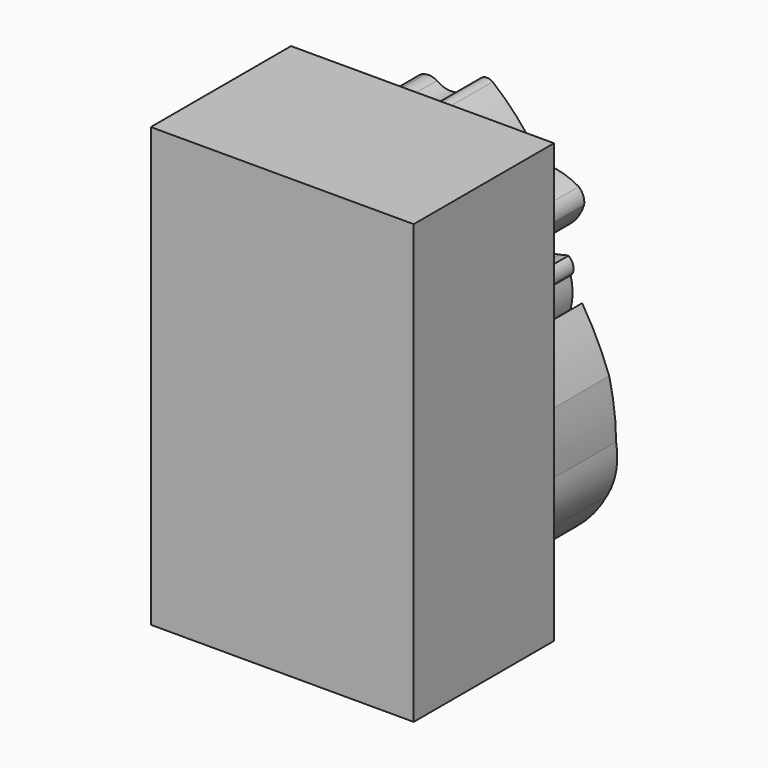
from build123d import *

# Parameters (mm, degrees)
F1_DEPTH = 5
F0_W     = 15
F0_H     = 25
F2_DEPTH = 10


with BuildPart() as f1:
    # F0 (on Front) → F1 (new body)
    with BuildSketch(Plane.XZ):
        with BuildLine():
            ThreePointArc((-5.00635, 6.25683), (-5.148587, 6.169676), (-5.254236, 6.04058))
            ThreePointArc((-5.254236, 6.04058), (-1.190227, 6.581507), (2.526522, 8.311981))
            ThreePointArc((2.526522, 8.311981), (1.373353, 9.812717), (0, 11.114988))
            ThreePointArc((0, 11.114988), (-0.315443, 11.216341), (-0.630887, 11.114988))
            ThreePointArc((-0.630887, 11.114988), (-1.26458, 10.464133), (-1.997163, 9.927009))
            ThreePointArc((-1.997163, 9.927009), (-2.612192, 9.895255), (-3.175682, 10.143748))
            ThreePointArc((-3.175682, 10.143748), (-3.498132, 10.256169), (-3.839445, 10.245345))
            ThreePointArc((-3.839445, 10.245345), (-4.281874, 9.989859), (-4.449024, 9.507078))
            ThreePointArc((-4.449024, 9.507078), (-4.844139, 7.901922), (-5.00635, 6.25683))
        make_face()
        with BuildLine():
            ThreePointArc((2.670606, 7.945094), (-1.26384, 6.241031), (-5.508093, 5.632733))
            ThreePointArc((-5.508093, 5.632733), (-6.248118, 5.09859), (-6.862471, 4.42367))
            ThreePointArc((-6.862471, 4.42367), (-7.089863, 3.94796), (-7.065664, 3.421252))
            ThreePointArc((-7.065664, 3.421252), (-6.488114, 2.908136), (-5.765229, 2.635573))
            ThreePointArc((-5.765229, 2.635573), (-0.612764, 3.086873), (4.109946, 5.195803))
            ThreePointArc((4.109946, 5.195803), (4.800531, 5.811559), (5.222178, 6.635136))
            ThreePointArc((5.222178, 6.635136), (5.172476, 7.079092), (4.914622, 7.443893))
            ThreePointArc((4.914622, 7.443893), (3.831957, 7.870641), (2.670606, 7.945094))
        make_face()
        with BuildLine():
            ThreePointArc((4.326092, 3.785272), (4.058701, 3.738354), (3.797791, 3.663356))
            ThreePointArc((3.797791, 3.663356), (1.987715, 3.298177), (0.343511, 2.457745))
            ThreePointArc((0.343511, 2.457745), (0.052907, 2.415777), (-0.225429, 2.322283))
            ThreePointArc((-0.225429, 2.322283), (-2.008909, 2.194381), (-3.666162, 1.523058))
            ThreePointArc((-3.666162, 1.523058), (-3.934429, 1.479938), (-4.194464, 1.401142))
            ThreePointArc((-4.194464, 1.401142), (-4.270509, 0.930872), (-4.140103, 0.472689))
            ThreePointArc((-4.140103, 0.472689), (-3.962901, 0.485716), (-3.7857, 0.472689))
            ThreePointArc((-3.7857, 0.472689), (-3.328622, -0.399799), (-2.625836, -1.089906))
            ThreePointArc((-2.625836, -1.089906), (-1.783595, -1.14206), (-0.983671, -0.873339))
            ThreePointArc((-0.983671, -0.873339), (-0.462666, -0.45625), (-0.078091, 0.089196))
            ThreePointArc((-0.078091, 0.089196), (0.096767, 0.528088), (0.104164, 1.000472))
            ThreePointArc((0.104164, 1.000472), (0.137311, 1.290969), (0.213338, 1.573295))
            ThreePointArc((0.213338, 1.573295), (0.382624, 1.644682), (0.565539, 1.627479))
            ThreePointArc((0.565539, 1.627479), (1.124563, 0.851077), (1.933705, 0.340591))
            ThreePointArc((1.933705, 0.340591), (2.665199, 0.212113), (3.396694, 0.340591))
            ThreePointArc((3.396694, 0.340591), (4.03033, 0.621907), (4.451704, 1.172431))
            ThreePointArc((4.451704, 1.172431), (4.561944, 2.006818), (4.451704, 2.841205))
            ThreePointArc((4.451704, 2.841205), (4.534789, 2.935465), (4.59409, 3.046242))
            ThreePointArc((4.59409, 3.046242), (4.57704, 3.458166), (4.326092, 3.785272))
        make_face()
        with BuildLine():
            ThreePointArc((-3.292127, 1.172228), (-2.078587, 1.734229), (-0.744217, 1.823573))
            ThreePointArc((-0.744217, 1.823573), (-0.455411, 1.687817), (-0.361073, 1.382957))
            ThreePointArc((-0.361073, 1.382957), (-0.319095, 0.865713), (-0.361073, 0.348468))
            ThreePointArc((-0.361073, 0.348468), (-0.764044, -0.229384), (-1.357248, -0.609393))
            ThreePointArc((-1.357248, -0.609393), (-2.008593, -0.762776), (-2.659938, -0.609393))
            ThreePointArc((-2.659938, -0.609393), (-3.147515, 0.220569), (-3.292127, 1.172228))
        make_face(mode=Mode.SUBTRACT)
        with BuildLine():
            ThreePointArc((1.293098, 2.495719), (2.323148, 2.961362), (3.448284, 3.070435))
            ThreePointArc((3.448284, 3.070435), (3.761202, 2.949906), (3.927214, 2.658555))
            ThreePointArc((3.927214, 2.658555), (4.153042, 2.02162), (4.128365, 1.346286))
            ThreePointArc((4.128365, 1.346286), (3.746392, 0.887432), (3.218397, 0.608734))
            ThreePointArc((3.218397, 0.608734), (2.744257, 0.54014), (2.270116, 0.608734))
            ThreePointArc((2.270116, 0.608734), (1.621266, 0.940275), (1.178154, 1.518701))
            ThreePointArc((1.178154, 1.518701), (1.04759, 1.791378), (1.034475, 2.093418))
            ThreePointArc((1.034475, 2.093418), (1.112689, 2.327417), (1.293098, 2.495719))
        make_face(mode=Mode.SUBTRACT)
        with BuildLine():
            ThreePointArc((7.046108, -4.680553), (6.942587, -3.07977), (6.65222, -1.502143))
            ThreePointArc((6.65222, -1.502143), (5.965912, 0.119684), (5.110065, 1.658797))
            ThreePointArc((5.110065, 1.658797), (4.414011, 0.465781), (4.075576, -0.873339))
            ThreePointArc((4.075576, -0.873339), (3.905919, -1.096582), (3.673274, -1.253099))
            ThreePointArc((3.673274, -1.253099), (2.475908, -0.989532), (1.249887, -0.994476))
            ThreePointArc((1.249887, -0.994476), (-0.013374, -1.571538), (-0.983671, -2.565193))
            ThreePointArc((-0.983671, -2.565193), (-1.194019, -2.623805), (-1.404368, -2.565193))
            ThreePointArc((-1.404368, -2.565193), (-2.586189, -1.524063), (-3.883399, -0.630811))
            ThreePointArc((-3.883399, -0.630811), (-3.73441, -1.906811), (-3.7857, -3.190456))
            ThreePointArc((-3.7857, -3.190456), (-3.294549, -5.188033), (-2.270776, -6.97225))
            ThreePointArc((-2.270776, -6.97225), (-1.139444, -8.565327), (0.508615, -9.61495))
            ThreePointArc((0.508615, -9.61495), (2.039521, -10.210907), (3.673274, -10.38322))
            ThreePointArc((3.673274, -10.38322), (5.316456, -9.181794), (6.530613, -7.547996))
            ThreePointArc((6.530613, -7.547996), (7.049669, -6.161251), (7.046108, -4.680553))
        make_face()
        with BuildLine():
            ThreePointArc((0, -3.552907), (0.234527, -3.317322), (0.52187, -3.150176))
            ThreePointArc((0.52187, -3.150176), (1.791623, -2.851839), (3.034909, -2.457479))
            ThreePointArc((3.034909, -2.457479), (3.308767, -2.876319), (3.034909, -3.295159))
            ThreePointArc((3.034909, -3.295159), (1.892551, -3.879557), (0.634635, -4.132839))
            ThreePointArc((0.634635, -4.132839), (0.250354, -3.916153), (0, -3.552907))
        make_face(mode=Mode.SUBTRACT)
    extrude(amount=-F1_DEPTH)

    # F0 (on Front) → F2 (join)
    with BuildSketch(Plane.XZ):
        Rectangle(F0_W, F0_H)
        with BuildLine():
            ThreePointArc((5.110065, 1.658797), (5.965912, 0.119684), (6.65222, -1.502143))
            ThreePointArc((6.65222, -1.502143), (6.942587, -3.07977), (7.046108, -4.680553))
            ThreePointArc((7.046108, -4.680553), (7.049669, -6.161251), (6.530613, -7.547996))
            ThreePointArc((6.530613, -7.547996), (5.316456, -9.181794), (3.673274, -10.38322))
            ThreePointArc((3.673274, -10.38322), (2.039521, -10.210907), (0.508615, -9.61495))
            ThreePointArc((0.508615, -9.61495), (-1.139444, -8.565327), (-2.270776, -6.97225))
            ThreePointArc((-2.270776, -6.97225), (-3.294549, -5.188033), (-3.7857, -3.190456))
            ThreePointArc((-3.7857, -3.190456), (-3.73441, -1.906811), (-3.883399, -0.630811))
            ThreePointArc((-3.883399, -0.630811), (-2.586189, -1.524063), (-1.404368, -2.565193))
            ThreePointArc((-1.404368, -2.565193), (-1.194019, -2.623805), (-0.983671, -2.565193))
            ThreePointArc((-0.983671, -2.565193), (-0.013374, -1.571538), (1.249887, -0.994476))
            ThreePointArc((1.249887, -0.994476), (2.475908, -0.989532), (3.673274, -1.253099))
            ThreePointArc((3.673274, -1.253099), (3.905919, -1.096582), (4.075576, -0.873339))
            ThreePointArc((4.075576, -0.873339), (4.414011, 0.465781), (5.110065, 1.658797))
        make_face(mode=Mode.SUBTRACT)
        with BuildLine():
            ThreePointArc((-6.862471, 4.42367), (-6.248118, 5.09859), (-5.508093, 5.632733))
            ThreePointArc((-5.508093, 5.632733), (-1.26384, 6.241031), (2.670606, 7.945094))
            ThreePointArc((2.670606, 7.945094), (3.831957, 7.870641), (4.914622, 7.443893))
            ThreePointArc((4.914622, 7.443893), (5.172476, 7.079092), (5.222178, 6.635136))
            ThreePointArc((5.222178, 6.635136), (4.800531, 5.811559), (4.109946, 5.195803))
            ThreePointArc((4.109946, 5.195803), (-0.612764, 3.086873), (-5.765229, 2.635573))
            ThreePointArc((-5.765229, 2.635573), (-6.488114, 2.908136), (-7.065664, 3.421252))
            ThreePointArc((-7.065664, 3.421252), (-7.089863, 3.94796), (-6.862471, 4.42367))
        make_face(mode=Mode.SUBTRACT)
        with BuildLine():
            ThreePointArc((2.526522, 8.311981), (-1.190227, 6.581507), (-5.254236, 6.04058))
            ThreePointArc((-5.254236, 6.04058), (-5.148587, 6.169676), (-5.00635, 6.25683))
            ThreePointArc((-5.00635, 6.25683), (-4.844139, 7.901922), (-4.449024, 9.507078))
            ThreePointArc((-4.449024, 9.507078), (-4.281874, 9.989859), (-3.839445, 10.245345))
            ThreePointArc((-3.839445, 10.245345), (-3.498132, 10.256169), (-3.175682, 10.143748))
            ThreePointArc((-3.175682, 10.143748), (-2.612192, 9.895255), (-1.997163, 9.927009))
            ThreePointArc((-1.997163, 9.927009), (-1.26458, 10.464133), (-0.630887, 11.114988))
            ThreePointArc((-0.630887, 11.114988), (-0.315443, 11.216341), (0, 11.114988))
            ThreePointArc((0, 11.114988), (1.373353, 9.812717), (2.526522, 8.311981))
        make_face(mode=Mode.SUBTRACT)
        with BuildLine():
            ThreePointArc((0.343511, 2.457745), (1.987715, 3.298177), (3.797791, 3.663356))
            ThreePointArc((3.797791, 3.663356), (4.058701, 3.738354), (4.326092, 3.785272))
            ThreePointArc((4.326092, 3.785272), (4.57704, 3.458166), (4.59409, 3.046242))
            ThreePointArc((4.59409, 3.046242), (4.534789, 2.935465), (4.451704, 2.841205))
            ThreePointArc((4.451704, 2.841205), (4.561944, 2.006818), (4.451704, 1.172431))
            ThreePointArc((4.451704, 1.172431), (4.03033, 0.621907), (3.396694, 0.340591))
            ThreePointArc((3.396694, 0.340591), (2.665199, 0.212113), (1.933705, 0.340591))
            ThreePointArc((1.933705, 0.340591), (1.124563, 0.851077), (0.565539, 1.627479))
            ThreePointArc((0.565539, 1.627479), (0.382624, 1.644682), (0.213338, 1.573295))
            ThreePointArc((0.213338, 1.573295), (0.137311, 1.290969), (0.104164, 1.000472))
            ThreePointArc((0.104164, 1.000472), (0.096767, 0.528088), (-0.078091, 0.089196))
            ThreePointArc((-0.078091, 0.089196), (-0.462666, -0.45625), (-0.983671, -0.873339))
            ThreePointArc((-0.983671, -0.873339), (-1.783595, -1.14206), (-2.625836, -1.089906))
            ThreePointArc((-2.625836, -1.089906), (-3.328622, -0.399799), (-3.7857, 0.472689))
            ThreePointArc((-3.7857, 0.472689), (-3.962901, 0.485716), (-4.140103, 0.472689))
            ThreePointArc((-4.140103, 0.472689), (-4.270509, 0.930872), (-4.194464, 1.401142))
            ThreePointArc((-4.194464, 1.401142), (-3.934429, 1.479938), (-3.666162, 1.523058))
            ThreePointArc((-3.666162, 1.523058), (-2.008909, 2.194381), (-0.225429, 2.322283))
            ThreePointArc((-0.225429, 2.322283), (0.052907, 2.415777), (0.343511, 2.457745))
        make_face(mode=Mode.SUBTRACT)
        with BuildLine():
            ThreePointArc((-5.00635, 6.25683), (-5.148587, 6.169676), (-5.254236, 6.04058))
            ThreePointArc((-5.254236, 6.04058), (-1.190227, 6.581507), (2.526522, 8.311981))
            ThreePointArc((2.526522, 8.311981), (1.373353, 9.812717), (0, 11.114988))
            ThreePointArc((0, 11.114988), (-0.315443, 11.216341), (-0.630887, 11.114988))
            ThreePointArc((-0.630887, 11.114988), (-1.26458, 10.464133), (-1.997163, 9.927009))
            ThreePointArc((-1.997163, 9.927009), (-2.612192, 9.895255), (-3.175682, 10.143748))
            ThreePointArc((-3.175682, 10.143748), (-3.498132, 10.256169), (-3.839445, 10.245345))
            ThreePointArc((-3.839445, 10.245345), (-4.281874, 9.989859), (-4.449024, 9.507078))
            ThreePointArc((-4.449024, 9.507078), (-4.844139, 7.901922), (-5.00635, 6.25683))
        make_face()
        with BuildLine():
            ThreePointArc((2.670606, 7.945094), (-1.26384, 6.241031), (-5.508093, 5.632733))
            ThreePointArc((-5.508093, 5.632733), (-6.248118, 5.09859), (-6.862471, 4.42367))
            ThreePointArc((-6.862471, 4.42367), (-7.089863, 3.94796), (-7.065664, 3.421252))
            ThreePointArc((-7.065664, 3.421252), (-6.488114, 2.908136), (-5.765229, 2.635573))
            ThreePointArc((-5.765229, 2.635573), (-0.612764, 3.086873), (4.109946, 5.195803))
            ThreePointArc((4.109946, 5.195803), (4.800531, 5.811559), (5.222178, 6.635136))
            ThreePointArc((5.222178, 6.635136), (5.172476, 7.079092), (4.914622, 7.443893))
            ThreePointArc((4.914622, 7.443893), (3.831957, 7.870641), (2.670606, 7.945094))
        make_face()
        with BuildLine():
            ThreePointArc((4.326092, 3.785272), (4.058701, 3.738354), (3.797791, 3.663356))
            ThreePointArc((3.797791, 3.663356), (1.987715, 3.298177), (0.343511, 2.457745))
            ThreePointArc((0.343511, 2.457745), (0.052907, 2.415777), (-0.225429, 2.322283))
            ThreePointArc((-0.225429, 2.322283), (-2.008909, 2.194381), (-3.666162, 1.523058))
            ThreePointArc((-3.666162, 1.523058), (-3.934429, 1.479938), (-4.194464, 1.401142))
            ThreePointArc((-4.194464, 1.401142), (-4.270509, 0.930872), (-4.140103, 0.472689))
            ThreePointArc((-4.140103, 0.472689), (-3.962901, 0.485716), (-3.7857, 0.472689))
            ThreePointArc((-3.7857, 0.472689), (-3.328622, -0.399799), (-2.625836, -1.089906))
            ThreePointArc((-2.625836, -1.089906), (-1.783595, -1.14206), (-0.983671, -0.873339))
            ThreePointArc((-0.983671, -0.873339), (-0.462666, -0.45625), (-0.078091, 0.089196))
            ThreePointArc((-0.078091, 0.089196), (0.096767, 0.528088), (0.104164, 1.000472))
            ThreePointArc((0.104164, 1.000472), (0.137311, 1.290969), (0.213338, 1.573295))
            ThreePointArc((0.213338, 1.573295), (0.382624, 1.644682), (0.565539, 1.627479))
            ThreePointArc((0.565539, 1.627479), (1.124563, 0.851077), (1.933705, 0.340591))
            ThreePointArc((1.933705, 0.340591), (2.665199, 0.212113), (3.396694, 0.340591))
            ThreePointArc((3.396694, 0.340591), (4.03033, 0.621907), (4.451704, 1.172431))
            ThreePointArc((4.451704, 1.172431), (4.561944, 2.006818), (4.451704, 2.841205))
            ThreePointArc((4.451704, 2.841205), (4.534789, 2.935465), (4.59409, 3.046242))
            ThreePointArc((4.59409, 3.046242), (4.57704, 3.458166), (4.326092, 3.785272))
        make_face()
        with BuildLine():
            ThreePointArc((-3.292127, 1.172228), (-2.078587, 1.734229), (-0.744217, 1.823573))
            ThreePointArc((-0.744217, 1.823573), (-0.455411, 1.687817), (-0.361073, 1.382957))
            ThreePointArc((-0.361073, 1.382957), (-0.319095, 0.865713), (-0.361073, 0.348468))
            ThreePointArc((-0.361073, 0.348468), (-0.764044, -0.229384), (-1.357248, -0.609393))
            ThreePointArc((-1.357248, -0.609393), (-2.008593, -0.762776), (-2.659938, -0.609393))
            ThreePointArc((-2.659938, -0.609393), (-3.147515, 0.220569), (-3.292127, 1.172228))
        make_face(mode=Mode.SUBTRACT)
        with BuildLine():
            ThreePointArc((1.293098, 2.495719), (2.323148, 2.961362), (3.448284, 3.070435))
            ThreePointArc((3.448284, 3.070435), (3.761202, 2.949906), (3.927214, 2.658555))
            ThreePointArc((3.927214, 2.658555), (4.153042, 2.02162), (4.128365, 1.346286))
            ThreePointArc((4.128365, 1.346286), (3.746392, 0.887432), (3.218397, 0.608734))
            ThreePointArc((3.218397, 0.608734), (2.744257, 0.54014), (2.270116, 0.608734))
            ThreePointArc((2.270116, 0.608734), (1.621266, 0.940275), (1.178154, 1.518701))
            ThreePointArc((1.178154, 1.518701), (1.04759, 1.791378), (1.034475, 2.093418))
            ThreePointArc((1.034475, 2.093418), (1.112689, 2.327417), (1.293098, 2.495719))
        make_face(mode=Mode.SUBTRACT)
        with BuildLine():
            ThreePointArc((7.046108, -4.680553), (6.942587, -3.07977), (6.65222, -1.502143))
            ThreePointArc((6.65222, -1.502143), (5.965912, 0.119684), (5.110065, 1.658797))
            ThreePointArc((5.110065, 1.658797), (4.414011, 0.465781), (4.075576, -0.873339))
            ThreePointArc((4.075576, -0.873339), (3.905919, -1.096582), (3.673274, -1.253099))
            ThreePointArc((3.673274, -1.253099), (2.475908, -0.989532), (1.249887, -0.994476))
            ThreePointArc((1.249887, -0.994476), (-0.013374, -1.571538), (-0.983671, -2.565193))
            ThreePointArc((-0.983671, -2.565193), (-1.194019, -2.623805), (-1.404368, -2.565193))
            ThreePointArc((-1.404368, -2.565193), (-2.586189, -1.524063), (-3.883399, -0.630811))
            ThreePointArc((-3.883399, -0.630811), (-3.73441, -1.906811), (-3.7857, -3.190456))
            ThreePointArc((-3.7857, -3.190456), (-3.294549, -5.188033), (-2.270776, -6.97225))
            ThreePointArc((-2.270776, -6.97225), (-1.139444, -8.565327), (0.508615, -9.61495))
            ThreePointArc((0.508615, -9.61495), (2.039521, -10.210907), (3.673274, -10.38322))
            ThreePointArc((3.673274, -10.38322), (5.316456, -9.181794), (6.530613, -7.547996))
            ThreePointArc((6.530613, -7.547996), (7.049669, -6.161251), (7.046108, -4.680553))
        make_face()
        with BuildLine():
            ThreePointArc((0, -3.552907), (0.234527, -3.317322), (0.52187, -3.150176))
            ThreePointArc((0.52187, -3.150176), (1.791623, -2.851839), (3.034909, -2.457479))
            ThreePointArc((3.034909, -2.457479), (3.308767, -2.876319), (3.034909, -3.295159))
            ThreePointArc((3.034909, -3.295159), (1.892551, -3.879557), (0.634635, -4.132839))
            ThreePointArc((0.634635, -4.132839), (0.250354, -3.916153), (0, -3.552907))
        make_face(mode=Mode.SUBTRACT)
        with BuildLine():
            ThreePointArc((3.034909, -2.457479), (1.791623, -2.851839), (0.52187, -3.150176))
            ThreePointArc((0.52187, -3.150176), (0.234527, -3.317322), (0, -3.552907))
            ThreePointArc((0, -3.552907), (0.250354, -3.916153), (0.634635, -4.132839))
            ThreePointArc((0.634635, -4.132839), (1.892551, -3.879557), (3.034909, -3.295159))
            ThreePointArc((3.034909, -3.295159), (3.308767, -2.876319), (3.034909, -2.457479))
        make_face()
        with BuildLine():
            ThreePointArc((-0.361073, 1.382957), (-0.455411, 1.687817), (-0.744217, 1.823573))
            ThreePointArc((-0.744217, 1.823573), (-2.078587, 1.734229), (-3.292127, 1.172228))
            ThreePointArc((-3.292127, 1.172228), (-3.147515, 0.220569), (-2.659938, -0.609393))
            ThreePointArc((-2.659938, -0.609393), (-2.008593, -0.762776), (-1.357248, -0.609393))
            ThreePointArc((-1.357248, -0.609393), (-0.764044, -0.229384), (-0.361073, 0.348468))
            ThreePointArc((-0.361073, 0.348468), (-0.319095, 0.865713), (-0.361073, 1.382957))
        make_face()
        with BuildLine():
            ThreePointArc((3.927214, 2.658555), (3.761202, 2.949906), (3.448284, 3.070435))
            ThreePointArc((3.448284, 3.070435), (2.323148, 2.961362), (1.293098, 2.495719))
            ThreePointArc((1.293098, 2.495719), (1.112689, 2.327417), (1.034475, 2.093418))
            ThreePointArc((1.034475, 2.093418), (1.04759, 1.791378), (1.178154, 1.518701))
            ThreePointArc((1.178154, 1.518701), (1.621266, 0.940275), (2.270116, 0.608734))
            ThreePointArc((2.270116, 0.608734), (2.744257, 0.54014), (3.218397, 0.608734))
            ThreePointArc((3.218397, 0.608734), (3.746392, 0.887432), (4.128365, 1.346286))
            ThreePointArc((4.128365, 1.346286), (4.153042, 2.02162), (3.927214, 2.658555))
        make_face()
    extrude(amount=F2_DEPTH)


solid = f1.part
